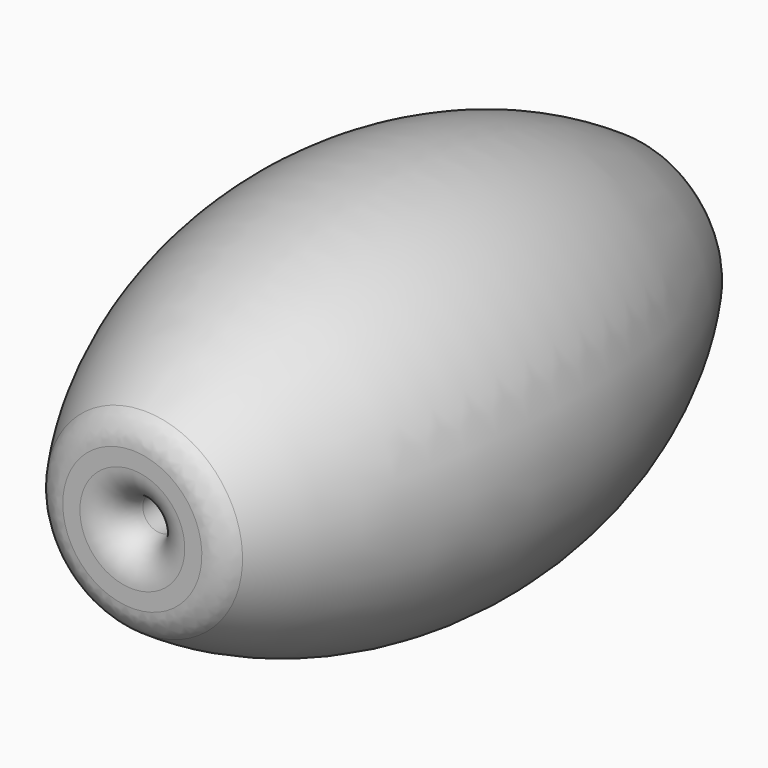
from build123d import *

# Parameters (mm, degrees)
F3_R = 10


with BuildPart() as f2:
    # F0 (on Right) → F2 (revolve)
    with BuildSketch(Plane.YZ):
        with BuildLine():
            Line((90, 5), (90, 25))
            ThreePointArc((90, 25), (0, 55), (-90, 25))
            Line((-90, 25), (-90, 5))
            Line((-90, 5), (90, 5))
        make_face()
    revolve(axis=Axis((0, -40.525872, 0), (0, -1, 0)))

    # F3
    f3_edges = [f2.edges().sort_by_distance(p)[0] for p in [
        (0, -90, -25),
        (0, -90, -5),
        (0, 90, -5),
        (0, 90, -25),
    ]]
    fillet(f3_edges, radius=F3_R)


solid = f2.part
